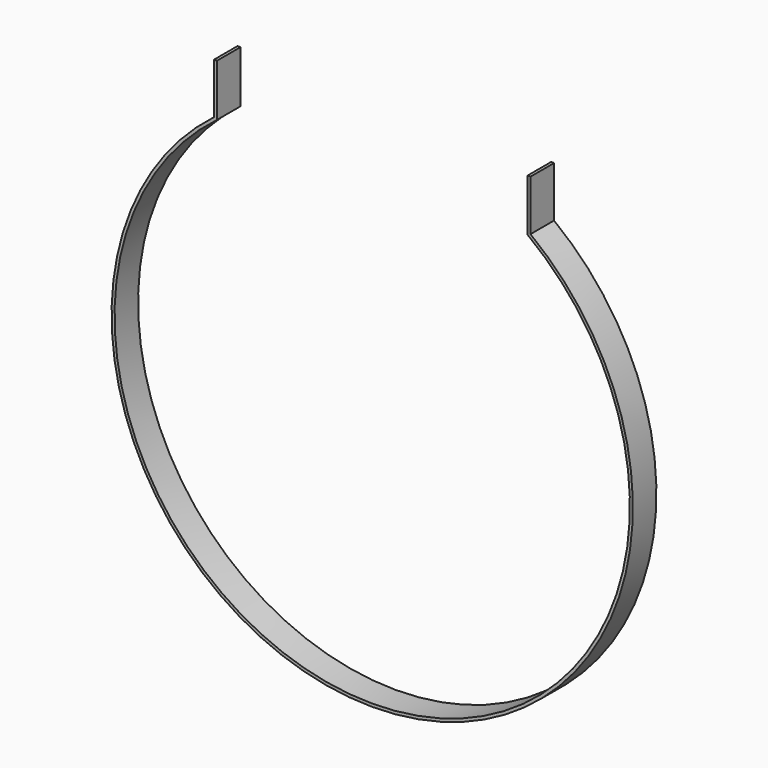
from build123d import *

# Parameters (mm, degrees)
F1_DEPTH = 20


with BuildPart() as f1:
    # F0 (on Front) → F1 (new body, symmetric)
    with BuildSketch(Plane.XZ):
        with BuildLine():
            Line((-211.000333, 279.24695), (-211.000333, 349.999326))
            Line((-211.000333, 349.999326), (-215.000333, 349.999326))
            Line((-215.000333, 349.999326), (-215.000333, 281.230967))
            ThreePointArc((-215.000333, 281.230967), (0.004068, -354), (214.993869, 281.235908))
            Line((214.993869, 281.235908), (214.999667, 349.999663))
            Line((214.999667, 349.999663), (210.999667, 350))
            Line((210.999667, 350), (210.993702, 279.251961))
            ThreePointArc((210.993702, 279.251961), (0.004156, -350), (-211.000333, 279.24695))
        make_face()
    extrude(amount=F1_DEPTH, both=True)


solid = f1.part
